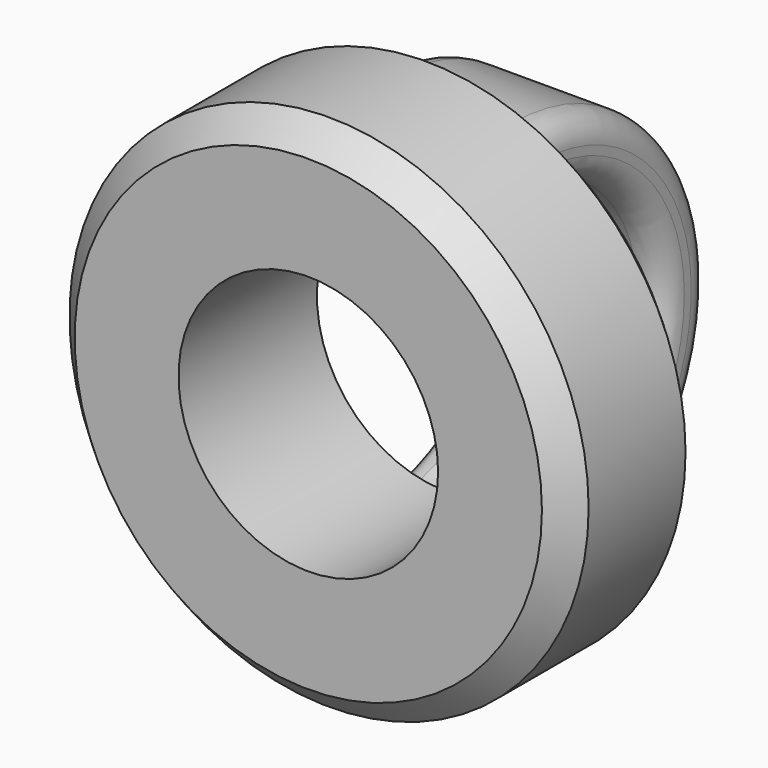
from build123d import *

# Parameters (mm, degrees)
F0_R     = 38.1
F0_R_2   = 19.05
F1_DEPTH = 25.4
F2_W     = 25.4
F2_H     = 8.89
F3_ANGLE = 180
F4_R     = 3.81
F5_SIZE  = 3.81


with BuildPart() as f1:
    # F0 (on Front) → F1 (new body)
    with BuildSketch(Plane.XZ):
        Circle(F0_R)
        Circle(F0_R_2, mode=Mode.SUBTRACT)
    extrude(amount=F1_DEPTH)

    # F2 (on Front) → F3 (revolve)
    with BuildSketch(Plane.XZ):
        with Locations((0.826871, -27.305)):
            Rectangle(F2_W, F2_H)
    revolve(axis=Axis((0.153273, 0, 0), (1, 0, 0)), revolution_arc=F3_ANGLE)

    # F4
    f4_edges = [f1.edges().sort_by_distance(p)[0] for p in [
        (13.526871, 31.75, 0),
        (-11.873129, 31.75, 0),
        (-11.873129, 22.86, 0),
        (13.526871, 22.86, 0),
    ]]
    fillet(f4_edges, radius=F4_R)

    # F5
    f5_edges = [f1.edges().sort_by_distance(p)[0] for p in [
        (-38.1, 0, 0),
        (-38.1, -25.4, 0),
    ]]
    chamfer(f5_edges, length=F5_SIZE)


solid = f1.part
